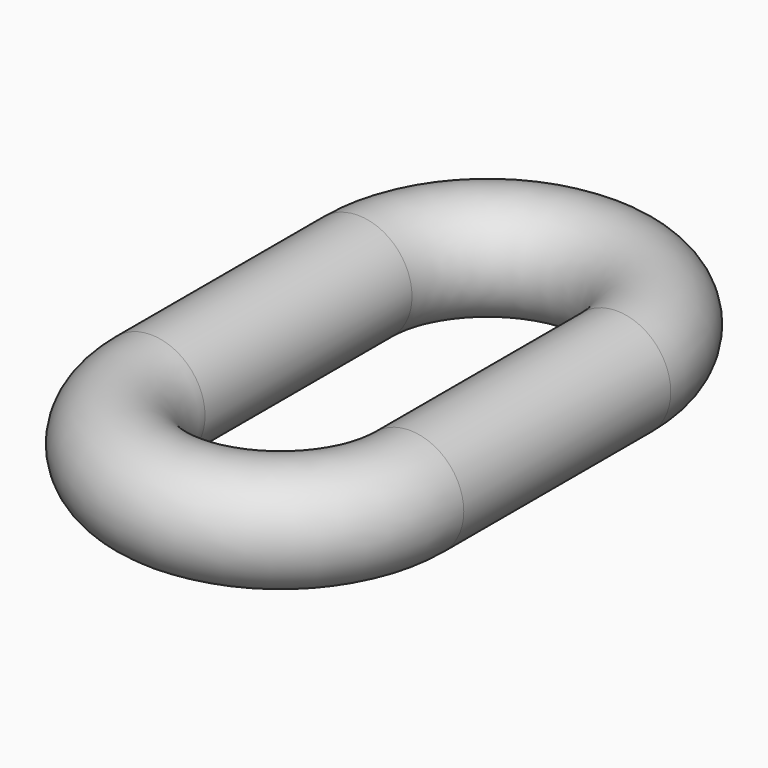
from build123d import *

# Parameters (mm, degrees)
F0_R      = 12.5
F1_ANGLE  = -180
F1_FACE_R = 12.5
F2_DEPTH  = 60
F3_R      = 12.5
F4_ANGLE  = 180


with BuildPart() as f1:
    # F0 (on Front) → F1 (revolve)
    with BuildSketch(Plane.XZ):
        with Locations((30, 0)):
            Circle(F0_R)
    revolve(axis=Axis((0, 0, -0.948295), (0, 0, -1)), revolution_arc=F1_ANGLE)

    # F1_face (on face) → F2 (join)
    with BuildSketch(Plane(origin=(30, 0, 0), x_dir=(1, 0, 0), z_dir=(0, -1, 0))):
        Circle(F1_FACE_R)
        with Locations((-60, 0)):
            Circle(F1_FACE_R)
    extrude(amount=F2_DEPTH)

    # F3 (on face) → F4 (revolve)
    with BuildSketch(Plane.XZ.offset(60)):
        with Locations((30, 0)):
            Circle(F3_R)
    revolve(axis=Axis((0, -60, -8.781475), (0, 0, -1)), revolution_arc=F4_ANGLE)


solid = f1.part
